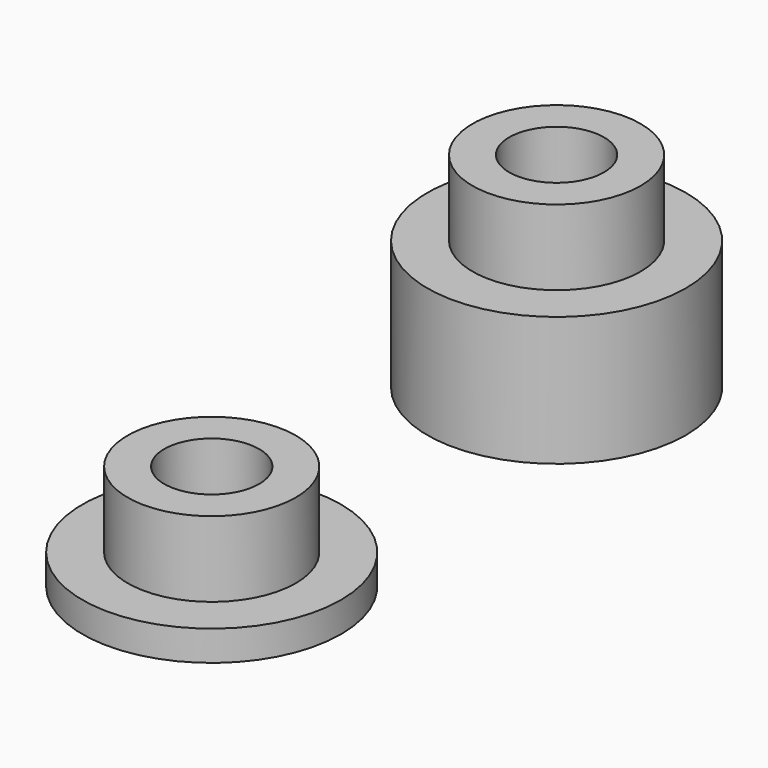
from build123d import *

# Parameters (mm, degrees)
F0_R      = 6
F1_DEPTH  = 1.4
F2_R      = 3.9
F3_DEPTH  = 3.5
F4_R      = 2.2
F5_DEPTH  = 4.9
F6_R      = 6
F7_DEPTH  = 6
F8_R      = 3.9
F9_DEPTH  = 3.5
F10_R     = 2.2
F11_DEPTH = 9.5


with BuildPart() as f1:
    # F0 (on Top) → F1 (new body)
    with BuildSketch(Plane.XY):
        Circle(F0_R)
    extrude(amount=F1_DEPTH)

    # F2 (on face) → F3 (join)
    with BuildSketch(Plane.XY.offset(1.4)):
        Circle(F2_R)
    extrude(amount=F3_DEPTH)

    # F4 (on face) → F5 (cut, through all)
    with BuildSketch(Plane.XY.offset(4.9)):
        Circle(F4_R)
    extrude(amount=-F5_DEPTH, mode=Mode.SUBTRACT)


with BuildPart() as f7:
    # F6 (on Top) → F7 (new body)
    with BuildSketch(Plane.XY):
        with Locations((0, 20)):
            Circle(F6_R)
    extrude(amount=F7_DEPTH)

    # F8 (on face) → F9 (join)
    with BuildSketch(Plane.XY.offset(6)):
        with Locations((0, 20)):
            Circle(F8_R)
    extrude(amount=F9_DEPTH)

    # F10 (on face) → F11 (cut, through all)
    with BuildSketch(Plane.XY.offset(9.5)):
        with Locations((0, 20)):
            Circle(F10_R)
    extrude(amount=-F11_DEPTH, mode=Mode.SUBTRACT)


solid = Compound([f1.part, f7.part])
